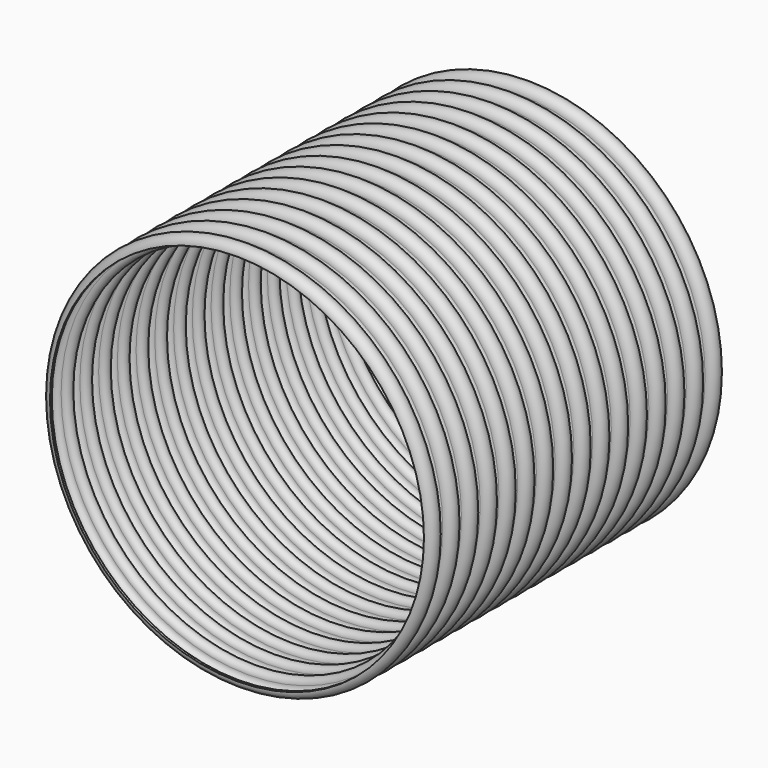
from build123d import *


with BuildPart() as f2:
    # F0 (on Top) → F2 (revolve)
    with BuildSketch(Plane.XY):
        with BuildLine():
            ThreePointArc((0, 9.8425), (4.92125, 4.92125), (0, 0))
            Line((0, 0), (0, -1.89738))
            ThreePointArc((0, -1.89738), (6.81863, 4.92125), (0, 11.73988))
            ThreePointArc((0, 11.73988), (-3.03657, 14.77645), (0, 17.81302))
            ThreePointArc((0, 17.81302), (6.81863, 24.63165), (0, 31.45028))
            ThreePointArc((0, 31.45028), (-3.03657, 34.48685), (0, 37.52342))
            ThreePointArc((0, 37.52342), (6.81863, 44.34205), (0, 51.16068))
            ThreePointArc((0, 51.16068), (-3.03657, 54.19725), (0, 57.23382))
            ThreePointArc((0, 57.23382), (6.81863, 64.05245), (0, 70.87108))
            ThreePointArc((0, 70.87108), (-3.03657, 73.90765), (0, 76.94422))
            ThreePointArc((0, 76.94422), (6.81863, 83.76285), (0, 90.58148))
            ThreePointArc((0, 90.58148), (-3.03657, 93.61805), (0, 96.65462))
            ThreePointArc((0, 96.65462), (6.81863, 103.47325), (0, 110.29188))
            ThreePointArc((0, 110.29188), (-3.03657, 113.32845), (0, 116.36502))
            ThreePointArc((0, 116.36502), (6.81863, 123.18365), (0, 130.00228))
            ThreePointArc((0, 130.00228), (-3.03657, 133.03885), (0, 136.07542))
            ThreePointArc((0, 136.07542), (6.81863, 142.89405), (0, 149.71268))
            ThreePointArc((0, 149.71268), (-3.03657, 152.74925), (0, 155.78582))
            ThreePointArc((0, 155.78582), (6.81863, 162.60445), (0, 169.42308))
            ThreePointArc((0, 169.42308), (-3.03657, 172.45965), (0, 175.49622))
            ThreePointArc((0, 175.49622), (6.81863, 182.31485), (0, 189.13348))
            ThreePointArc((0, 189.13348), (-3.03657, 192.17005), (0, 195.20662))
            ThreePointArc((0, 195.20662), (6.81863, 202.02525), (0, 208.84388))
            ThreePointArc((0, 208.84388), (-3.03657, 211.88045), (0, 214.91702))
            ThreePointArc((0, 214.91702), (6.81863, 221.73565), (0, 228.55428))
            ThreePointArc((0, 228.55428), (-3.03657, 231.59085), (0, 234.62742))
            ThreePointArc((0, 234.62742), (6.81863, 241.44605), (0, 248.26468))
            ThreePointArc((0, 248.26468), (-3.03657, 251.30125), (0, 254.33782))
            ThreePointArc((0, 254.33782), (6.81863, 261.15645), (0, 267.97508))
            ThreePointArc((0, 267.97508), (-3.03657, 271.01165), (0, 274.04822))
            ThreePointArc((0, 274.04822), (6.81863, 280.86685), (0, 287.68548))
            ThreePointArc((0, 287.68548), (-3.03657, 290.72205), (0, 293.75862))
            ThreePointArc((0, 293.75862), (6.81863, 300.57725), (0, 307.39588))
            Line((0, 307.39588), (0, 305.4985))
            ThreePointArc((0, 305.4985), (4.92125, 300.57725), (0, 295.656))
            ThreePointArc((0, 295.656), (-4.93395, 290.72205), (0, 285.7881))
            ThreePointArc((0, 285.7881), (4.92125, 280.86685), (0, 275.9456))
            ThreePointArc((0, 275.9456), (-4.93395, 271.01165), (0, 266.0777))
            ThreePointArc((0, 266.0777), (4.92125, 261.15645), (0, 256.2352))
            ThreePointArc((0, 256.2352), (-4.93395, 251.30125), (0, 246.3673))
            ThreePointArc((0, 246.3673), (4.92125, 241.44605), (0, 236.5248))
            ThreePointArc((0, 236.5248), (-4.93395, 231.59085), (0, 226.6569))
            ThreePointArc((0, 226.6569), (4.92125, 221.73565), (0, 216.8144))
            ThreePointArc((0, 216.8144), (-4.93395, 211.88045), (0, 206.9465))
            ThreePointArc((0, 206.9465), (4.92125, 202.02525), (0, 197.104))
            ThreePointArc((0, 197.104), (-4.93395, 192.17005), (0, 187.2361))
            ThreePointArc((0, 187.2361), (4.92125, 182.31485), (0, 177.3936))
            ThreePointArc((0, 177.3936), (-4.93395, 172.45965), (0, 167.5257))
            ThreePointArc((0, 167.5257), (4.92125, 162.60445), (0, 157.6832))
            ThreePointArc((0, 157.6832), (-4.93395, 152.74925), (0, 147.8153))
            ThreePointArc((0, 147.8153), (4.92125, 142.89405), (0, 137.9728))
            ThreePointArc((0, 137.9728), (-4.93395, 133.03885), (0, 128.1049))
            ThreePointArc((0, 128.1049), (4.92125, 123.18365), (0, 118.2624))
            ThreePointArc((0, 118.2624), (-4.93395, 113.32845), (0, 108.3945))
            ThreePointArc((0, 108.3945), (4.92125, 103.47325), (0, 98.552))
            ThreePointArc((0, 98.552), (-4.93395, 93.61805), (0, 88.6841))
            ThreePointArc((0, 88.6841), (4.92125, 83.76285), (0, 78.8416))
            ThreePointArc((0, 78.8416), (-4.93395, 73.90765), (0, 68.9737))
            ThreePointArc((0, 68.9737), (4.92125, 64.05245), (0, 59.1312))
            ThreePointArc((0, 59.1312), (-4.93395, 54.19725), (0, 49.2633))
            ThreePointArc((0, 49.2633), (4.92125, 44.34205), (0, 39.4208))
            ThreePointArc((0, 39.4208), (-4.93395, 34.48685), (0, 29.5529))
            ThreePointArc((0, 29.5529), (4.92125, 24.63165), (0, 19.7104))
            ThreePointArc((0, 19.7104), (-4.93395, 14.77645), (0, 9.8425))
        make_face()
    revolve(axis=Axis((-157.32125, 152.4, 0), (0, 1, 0)))


solid = f2.part
